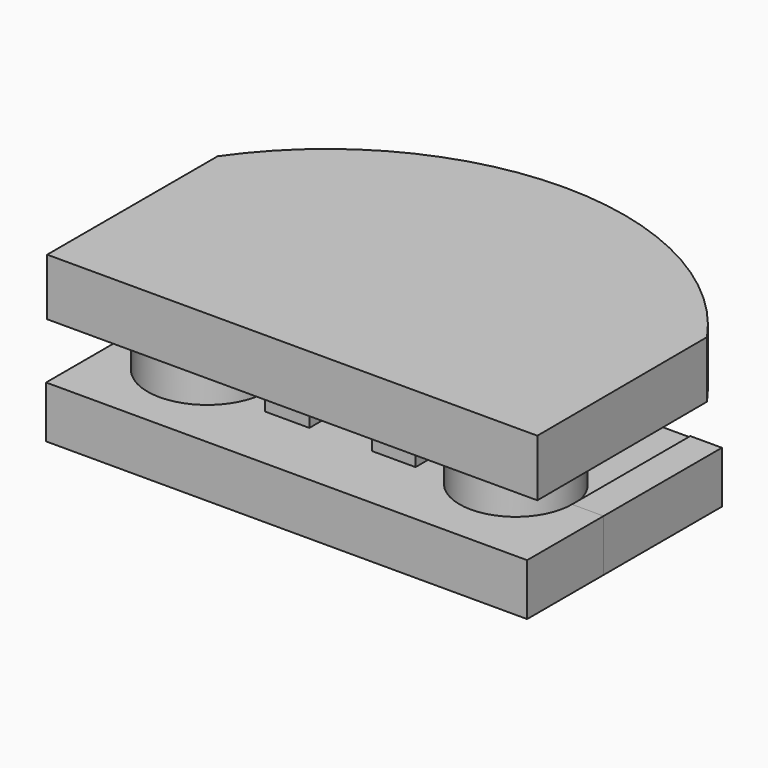
from build123d import *

# Parameters (mm, degrees)
F1_DEPTH = 25.4
F4_DEPTH = 50.038
F2_R     = 25.090233
F2_R_2   = 26.657119
F5_DEPTH = 25.4
F7_DEPTH = 42.672
F8_DEPTH = 38.1
F9_DEPTH = 27.94


with BuildPart() as f1:
    # F0 (on Top) → F1 (new body)
    with BuildSketch(Plane.XY):
        Polygon((-64.763337, -42.492058), (114.4071, -42.492058), (114.066206, 52.617431), (-104.446977, 52.617431), (-104.446977, 43.53686), (-104.446977, -42.492058), align=None)
        with BuildLine():
            Line((-104.446977, 52.617431), (114.066206, 52.617431))
            ThreePointArc((114.066206, 52.617431), (4.809614, 109.846419), (-104.446977, 52.617431))
        make_face()
    extrude(amount=F1_DEPTH)

    # F3 (on face) → F4 (join)
    with BuildSketch(Plane.XY.offset(25.4)):
        Polygon((-29.791148, 35.913613), (-31.154724, -12.493366), (-11.382861, -12.493366), (-11.382861, 35.913613), align=None)
        Polygon((36.001436, 35.913613), (14.865994, 35.913613), (16.570466, -12.493366), (36.001436, -12.493366), align=None)
    extrude(amount=-F4_DEPTH)

    # F2 (on face) → F5 (join)
    with BuildSketch(Plane(origin=(0, 0, 0), x_dir=(1, 0, 0), z_dir=(0, 0, -1))):
        with Locations((70.772655, 0)):
            Circle(F2_R)
        with Locations((-66.948615, 0)):
            Circle(F2_R_2)
    extrude(amount=F5_DEPTH)

    # F6 (on Front) → F7 (join)
    with BuildSketch(Plane.XZ):
        Polygon((-104.787871, -29.317232), (-104.787871, -44.657469), (-104.787871, -48.044585), (109.97548, -48.044585), (109.97548, -24.885604), (-104.787871, -24.885604), align=None)
    extrude(amount=F7_DEPTH)

    # F7_face (on face) → F8 (join)
    with BuildSketch(Plane(origin=(2.62374, 0, -36.587597), x_dir=(1, 0, 0), z_dir=(0, 1, 0))):
        Polygon((-107.411612, 11.456988), (-107.411612, -11.701992), (-96.229475, -11.701992), (-96.229475, -11.187597), (-42.915236, -11.187597), (-42.915236, -11.701992), (43.058682, -11.701992), (43.058682, -11.187597), (93.239148, -11.187597), (93.239148, -11.701992), (107.351739, -11.701992), (107.351739, 11.456988), align=None)
    extrude(amount=F8_DEPTH)

    # F8_face (on face) → F9 (join)
    with BuildSketch(Plane(origin=(2.62374, 38.1, -36.587597), x_dir=(1, 0, 0), z_dir=(0, 1, 0))):
        Polygon((-107.411612, 11.456988), (-107.411612, -11.701992), (-96.229475, -11.701992), (-96.229475, -11.187597), (-42.915236, -11.187597), (-42.915236, -11.701992), (43.058682, -11.701992), (43.058682, -11.187597), (93.239148, -11.187597), (93.239148, -11.701992), (107.351739, -11.701992), (107.351739, 11.456988), align=None)
    extrude(amount=F9_DEPTH)


solid = f1.part
